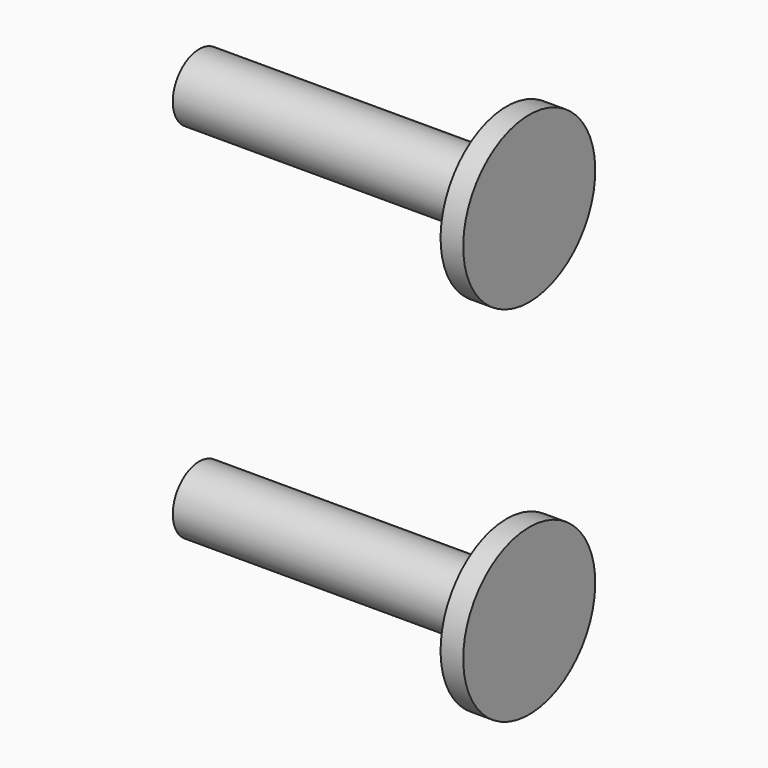
from build123d import *

# Parameters (mm, degrees)
F0_W = 1.743612
F0_H = 3.81


with BuildPart() as f1:
    # F0 (on Front) → F1 (revolve)
    with BuildSketch(Plane.XZ):
        Polygon((-12.7, -1.27), (12.7, -1.27), (12.7, 1.27), (10.956388, 1.27), (-12.7, 1.27), align=None)
        with Locations((11.828194, 3.175)):
            Rectangle(F0_W, F0_H)
    revolve(axis=Axis((0, 0, -1.27), (-1, 0, 0)))


with BuildPart() as f3_1:
    # F3: instance of F1
    add(f1.part.mirror(Plane.XY.offset(12.7)))


solid = Compound([f1.part, f3_1.part])
